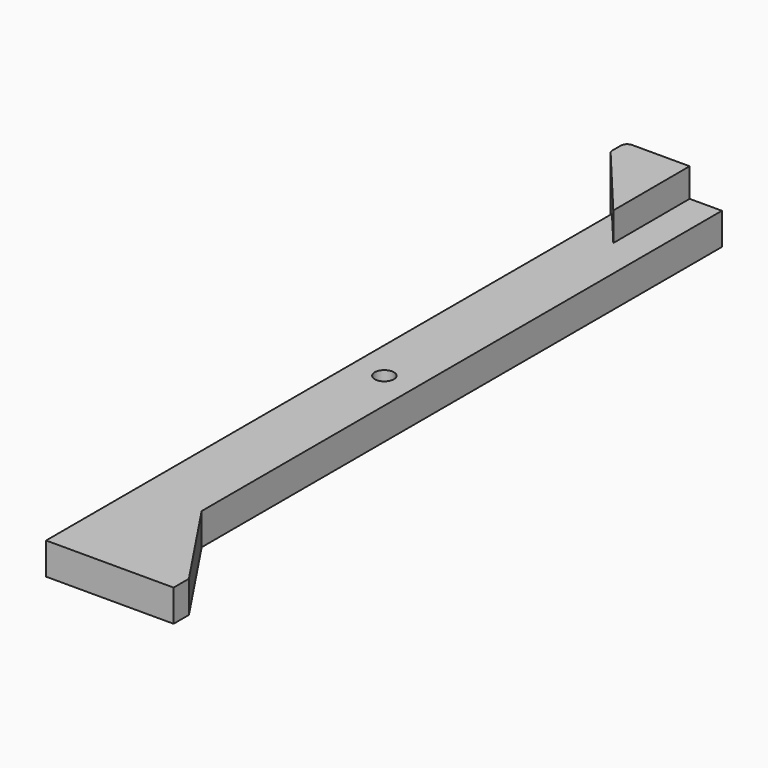
from build123d import *

# Parameters (mm, degrees)
F0_W      = 60
F0_H      = 10
F1_DEPTH  = 5
F4_DEPTH  = 5
F6_DEPTH  = 9.5
F8_D      = 3
F9_R      = 1
F11_D     = 3
F11_DEPTH = 4
F11_TIP   = 0.9012909285
F12_ANGLE = 90


with BuildPart() as f1:
    # F0 (on Right) → F1 (new body)
    with BuildSketch(Plane.YZ):
        with Locations((30, 10.0670714118)):
            Rectangle(F0_W, F0_H)
    extrude(amount=-F1_DEPTH)

    # F2: F1 across plane


with BuildPart() as f1_1:
    add(f1.part)
    add(f1.part.mirror(Plane.XZ))

    # F3 (on Right) → F4 (join)
    with BuildSketch(Plane.YZ):
        Polygon((-60, 25.0670714118), (-60, 15.0670714118), (-42, 15.0670714118), (-57, 25.0670714118), align=None)
    extrude(amount=-F4_DEPTH)

    # F5 (on face) → F6 (join)
    with BuildSketch(Plane.YZ):
        Polygon((60, 10), (45.0000320606, 10.031013164), (57, 0), (60, 0), align=None)
    extrude(amount=-F6_DEPTH)

    # F8 (through all)
    with Locations(Plane.YZ):
        with Locations((0, 10.122266598)):
            Hole(F8_D / 2)

    # F9
    f9_edges = [f1_1.edges().sort_by_distance(p)[0] for p in [
        (-4.75, 57, 0),
        (-4.75, 60, 0),
    ]]
    fillet(f9_edges, radius=F9_R)

    # F11
    with Locations(Plane(origin=(0, 0, 5.0670714118), x_dir=(1, 0, 0), z_dir=(0, 0, -1))):
        with Locations((-2.5, 45)):
            Hole(F11_D / 2, depth=F11_DEPTH)
            with Locations((0, 0, -(F11_DEPTH + F11_TIP / 2))):  # 118° drill point
                Cone(0, F11_D / 2, F11_TIP, mode=Mode.SUBTRACT)


with BuildPart() as f1_2:
    # F12: moved
    add(f1_1.part.rotate(Axis((-5, -4.5308351456, 5.0670714118), (0, 1, 0)), F12_ANGLE))


solid = f1_2.part
